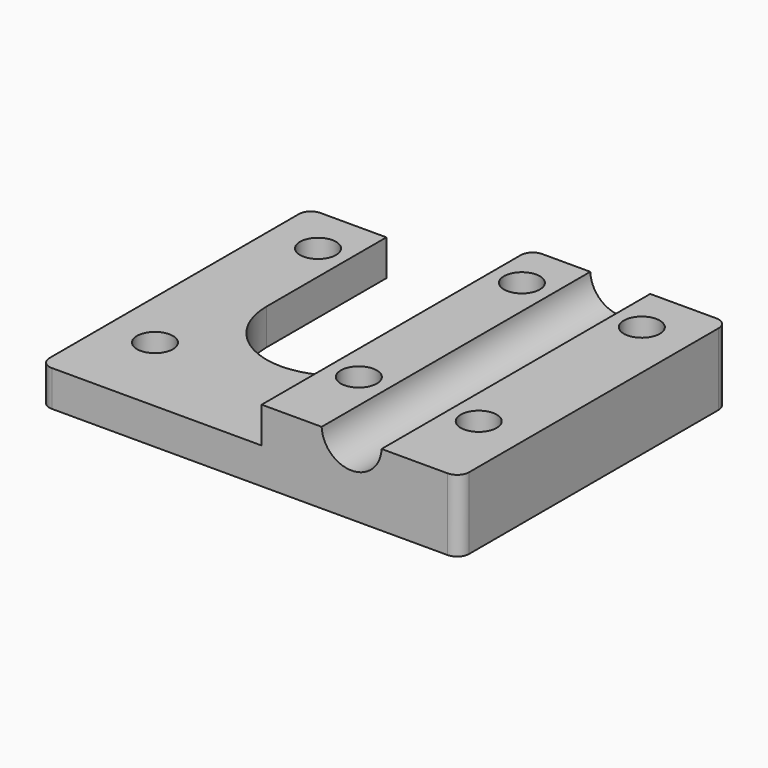
from build123d import *

# Parameters (mm, degrees)
SKETCH_R     = 1.5
PAD_DEPTH    = 3
SKETCH001_W  = 16.5
SKETCH001_H  = 28
SKETCH001_R  = 1.5
PAD001_DEPTH = 3
SKETCH002_R  = 2.5
POCKET_DEPTH = 28.001
FILLET_R     = 1
FILLET001_R  = 1
FILLET002_R  = 1
FILLET003_R  = 1


with BuildPart() as part:
    # Sketch → Pad (new body)
    with BuildSketch(Plane.XY):
        with BuildLine():
            ThreePointArc((-6, 0), (0, -6), (6, 0))
            Line((6, 0), (6, 12.5))
            Line((6, 12.5), (22.5, 12.5))
            Line((22.5, 12.5), (22.5, -15.5))
            Line((-12.5, -15.5), (22.5, -15.5))
            Line((-12.5, 12.5), (-12.5, -15.5))
            Line((-6, 12.5), (-12.5, 12.5))
            Line((-6, 12.5), (-6, 0))
        make_face()
        with Locations((-8.5, -8.5)):
            Circle(SKETCH_R, mode=Mode.SUBTRACT)
        with Locations((8.5, -8.5)):
            Circle(SKETCH_R, mode=Mode.SUBTRACT)
        with Locations((-8.5, 8.5)):
            Circle(SKETCH_R, mode=Mode.SUBTRACT)
        with Locations((8.5, 8.5)):
            Circle(SKETCH_R, mode=Mode.SUBTRACT)
        with Locations((18.5, 8.5)):
            Circle(SKETCH_R, mode=Mode.SUBTRACT)
        with Locations((18.5, -8.5)):
            Circle(SKETCH_R, mode=Mode.SUBTRACT)
    extrude(amount=PAD_DEPTH)

    # Sketch001 → Pad001 (join)
    with BuildSketch(Plane.XY.offset(3)):
        with Locations((14.25, -1.5)):
            Rectangle(SKETCH001_W, SKETCH001_H)
        with Locations((8.5, 8.5)):
            Circle(SKETCH001_R, mode=Mode.SUBTRACT)
        with Locations((18.5, 8.5)):
            Circle(SKETCH001_R, mode=Mode.SUBTRACT)
        with Locations((18.5, -8.5)):
            Circle(SKETCH001_R, mode=Mode.SUBTRACT)
        with Locations((8.5, -8.5)):
            Circle(SKETCH001_R, mode=Mode.SUBTRACT)
    extrude(amount=PAD001_DEPTH)

    # Sketch002 (on Face20 of Pad001) → Pocket (cut, through all)
    with BuildSketch(Plane.XZ.offset(15.5)):
        with Locations((13.5, 6.1)):
            Circle(SKETCH002_R)
    extrude(amount=-POCKET_DEPTH, mode=Mode.SUBTRACT)

    # Fillet
    fillet_edges = [part.edges().sort_by_distance(p)[0] for p in [
        (-12.5, -15.5, 1.5),
        (22.5, -15.5, 1.5),
        (22.5, -15.5, 4.5),
    ]]
    fillet(fillet_edges, radius=FILLET_R)

    # Fillet001
    fillet001_edges = [part.edges().sort_by_distance(p)[0] for p in [
        (-12.5, 12.5, 1.5),
    ]]
    fillet(fillet001_edges, radius=FILLET001_R)

    # Fillet002
    fillet002_edges = [part.edges().sort_by_distance(p)[0] for p in [
        (6, 12.5, 4.5),
        (6, 12.5, 1.5),
    ]]
    fillet(fillet002_edges, radius=FILLET002_R)

    # Fillet003
    fillet003_edges = [part.edges().sort_by_distance(p)[0] for p in [
        (22.5, 12.5, 4.5),
        (22.5, 12.5, 1.5),
    ]]
    fillet(fillet003_edges, radius=FILLET003_R)


solid = part.part
